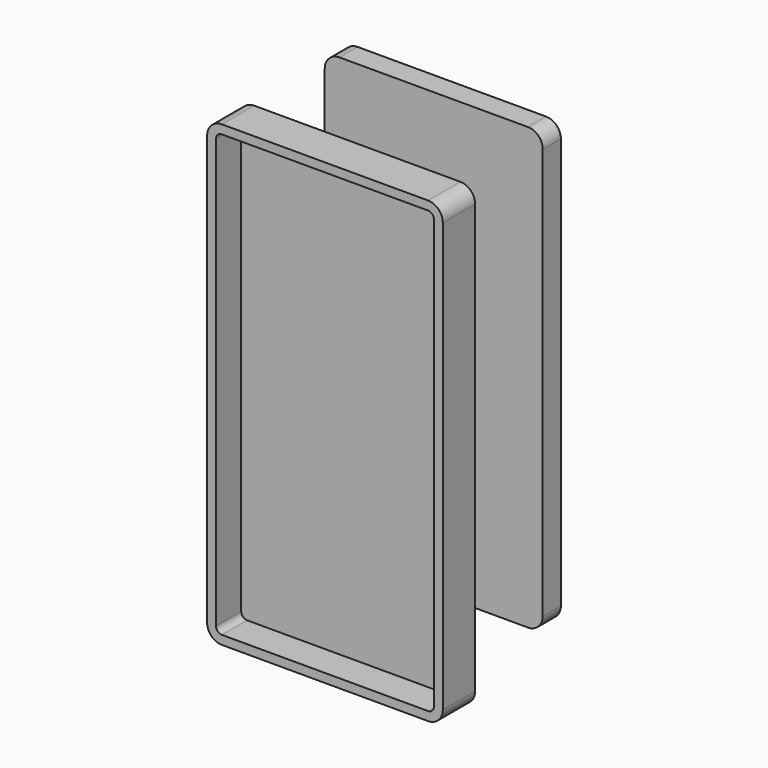
from build123d import *

# Parameters (mm, degrees)
F0_W      = 73.9
F0_H      = 149.4
F1_DEPTH  = 3.85
F3_R      = 5
F4_R      = 5
F7_W      = 79.9
F7_H      = 155.4
F9_DEPTH  = 13.7
F10_R     = 5
F11_T     = -3
F12_W     = 30
F12_H     = 29.1961848977
F13_DEPTH = 8
F14_W     = 10
F14_H     = 10


with BuildPart() as f1:
    # F0 (on Front) → F1 (new body, symmetric)
    with BuildSketch(Plane.XZ):
        with Locations((0, 74.7)):
            Rectangle(F0_W, F0_H)
    extrude(amount=F1_DEPTH, both=True)


with BuildPart() as f1_1:
    # F2: moved
    add(f1.part.moved(Location((0, 0, -75))))

    # F3
    f3_edges = [f1_1.edges().sort_by_distance(p)[0] for p in [
        (36.95, 0, 74.4),
    ]]
    fillet(f3_edges, radius=F3_R)

    # F4
    f4_edges = [f1_1.edges().sort_by_distance(p)[0] for p in [
        (-36.95, 0, 74.4),
        (-36.95, 0, -75),
        (36.95, 0, -75),
    ]]
    fillet(f4_edges, radius=F4_R)


with BuildPart() as f5_1:
    # F5: copy of F1
    add(f1_1.part.moved(Location((0, 23, 0))))


with BuildPart() as f1_2:
    # F8: moved
    add(f1_1.part.moved(Location((0, 40, 0))))


with BuildPart() as f9:
    # F7 (on Front) → F9 (new body)
    with BuildSketch(Plane.XZ):
        with Locations((3, -3)):
            Rectangle(F7_W, F7_H)
    extrude(amount=F9_DEPTH)

    # F10
    f10_edges = [f9.edges().sort_by_distance(p)[0] for p in [
        (-36.95, -6.85, 74.7),
        (42.95, -6.85, 74.7),
        (42.95, -6.85, -80.7),
        (-36.95, -6.85, -80.7),
    ]]
    fillet(f10_edges, radius=F10_R)

    # F11
    f11_openings = [f9.faces().sort_by_distance(p)[0] for p in [
        (3, -13.7, -3),
    ]]
    offset(amount=F11_T, openings=f11_openings)

    # F12 (on face) → F13 (join)
    with BuildSketch(Plane(origin=(0, 0, 0), x_dir=(-1, 0, 0), z_dir=(0, 1, 0))):
        Rectangle(F12_W, F12_H)
    extrude(amount=F13_DEPTH)

    # F14 (on Top) → F15 (revolve)
    with BuildSketch(Plane.XY):
        with Locations((0, 6.5329223871)):
            Rectangle(F14_W, F14_H)
    revolve(axis=Axis((-0.3910209052, 36.5329223871, 0), (1, 0, 0)))


solid = Compound([f1_2.part, f9.part])
